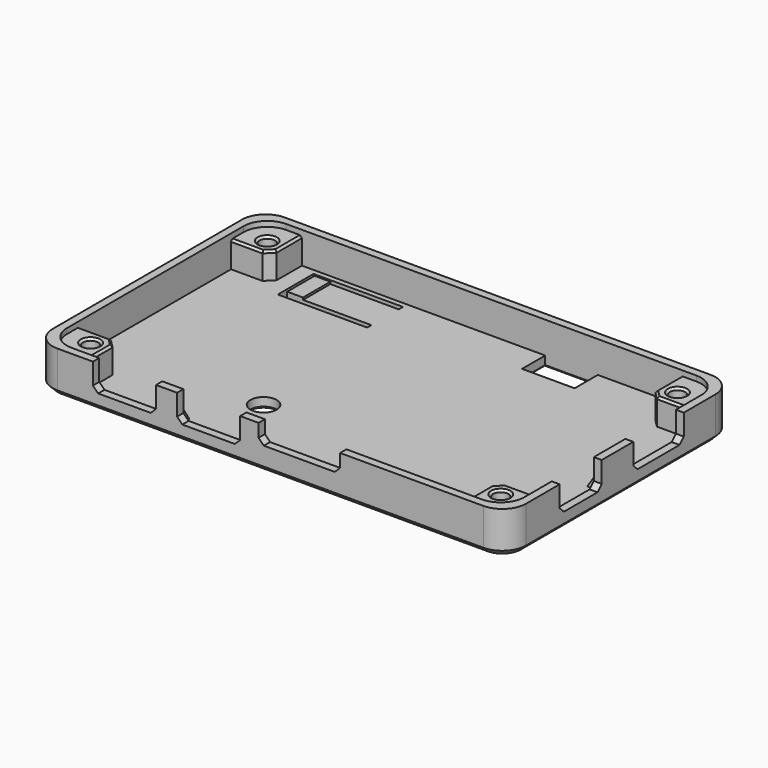
from build123d import *

# Parameters (mm, degrees)
PAD_DEPTH          = 8
POCKET_DEPTH       = 6
SKETCH002_R        = 2.5
SKETCH002_W        = 10
SKETCH002_H        = 5.5
POCKET001_DEPTH    = 2
SKETCH012_W        = 3
SKETCH012_H        = 6.5
PAD004_DEPTH       = 0.4
SKETCH003_W        = 12
SKETCH003_H        = 1.5
SKETCH003_W_2      = 1.5
SKETCH003_H_2      = 10
SKETCH003_H_3      = 12
POCKET002_DEPTH    = 5
CHAMFER_SIZE       = 1
SKETCH013_W        = 15.5
SKETCH013_H        = 1.5
POCKET003_DEPTH    = 3.5
CHAMFER002_SIZE    = 1
SKETCH014_W        = 10
SKETCH014_H        = 2
SKETCH014_W_2      = 3
SKETCH014_W_3      = 2
SKETCH014_H_2      = 5
PAD005_DEPTH       = 3
SKETCH015_W        = 7.5
SKETCH015_H        = 7.5
PAD006_DEPTH       = 5
SKETCH016_R        = 1.45
POCKET004_DEPTH    = 7
CHAMFER003_SIZE    = 1.5
CHAMFER004_1_SIZE2 = 2.9
CHAMFER004_1_SIZE  = 1.9
CHAMFER004_2_SIZE2 = 2.9
CHAMFER004_2_SIZE  = 1.9
CHAMFER004_3_SIZE2 = 2.9
CHAMFER004_3_SIZE  = 1.9
CHAMFER005_SIZE2   = 1.9
CHAMFER005_SIZE    = 2.9
CHAMFER007_SIZE    = 0.4
CHAMFER008_SIZE    = 1


with BuildPart() as part:
    # Sketch → Pad (new body)
    with BuildSketch(Plane.XY):
        with BuildLine():
            Line((-40.5, -27), (40.5, -27))
            ThreePointArc((40.5, -27), (43.681981, -25.681981), (45, -22.5))
            Line((45, -22.5), (45, 22.5))
            ThreePointArc((45, 22.5), (43.681981, 25.681981), (40.5, 27))
            Line((40.5, 27), (-40.5, 27))
            ThreePointArc((-40.5, 27), (-43.681981, 25.681981), (-45, 22.5))
            Line((-45, 22.5), (-45, -22.5))
            ThreePointArc((-45, -22.5), (-43.681981, -25.681981), (-40.5, -27))
        make_face()
    extrude(amount=PAD_DEPTH)

    # Sketch001 (on Face10 of Pad) → Pocket (cut)
    with BuildSketch(Plane.XY.offset(8)):
        with BuildLine():
            Line((-39, -25.5), (39, -25.5))
            ThreePointArc((39, -25.5), (42.181981, -24.181981), (43.5, -21))
            Line((43.5, -21), (43.5, 21))
            ThreePointArc((43.5, 21), (42.181981, 24.181981), (39, 25.5))
            Line((39, 25.5), (-39, 25.5))
            ThreePointArc((-39, 25.5), (-42.181981, 24.181981), (-43.5, 21))
            Line((-43.5, 21), (-43.5, -21))
            ThreePointArc((-43.5, -21), (-42.181981, -24.181981), (-39, -25.5))
        make_face()
    extrude(amount=-POCKET_DEPTH, mode=Mode.SUBTRACT)

    # Sketch002 (on Face4 of Pocket) → Pocket001 (cut)
    with BuildSketch(Plane(origin=(0, 0, 0), x_dir=(1, 0, 0), z_dir=(0, 0, -1))):
        with Locations((-12.5, 13)):
            Circle(SKETCH002_R)
        Polygon((-16, -23.5), (-32, -23.5), (-32, -17), (-16, -17), (-16, -16), (-33, -16), (-33, -24.5), (-16, -24.5), align=None)
        with Locations((15.25, -22.75)):
            Rectangle(SKETCH002_W, SKETCH002_H)
    extrude(amount=-POCKET001_DEPTH, mode=Mode.SUBTRACT)

    # Sketch012 (on Face30 of Pocket001) → Pad004 (join)
    with BuildSketch(Plane.XY.offset(2)):
        with Locations((-30.5, 20.25)):
            Rectangle(SKETCH012_W, SKETCH012_H)
    extrude(amount=PAD004_DEPTH)

    # Sketch003 (on Face5 of Pocket001) → Pocket002 (cut)
    with BuildSketch(Plane.XY.offset(8)):
        with Locations((-11.75, -26.25)):
            Rectangle(SKETCH003_W, SKETCH003_H)
        with Locations((44.25, -9.5)):
            Rectangle(SKETCH003_W_2, SKETCH003_H_2)
        with Locations((-27.75, -26.25)):
            Rectangle(SKETCH003_W, SKETCH003_H)
        with Locations((44.25, 9)):
            Rectangle(SKETCH003_W_2, SKETCH003_H_3)
    extrude(amount=-POCKET002_DEPTH, mode=Mode.SUBTRACT)

    # Chamfer
    chamfer_edges = [part.edges().sort_by_distance(p)[0] for p in [
        (44.25, -4.5, 3),
        (-17.75, -26.25, 3),
        (-5.75, -26.25, 3),
        (44.25, -14.5, 3),
        (-33.75, -26.25, 3),
        (44.25, 15, 3),
        (44.25, 3, 3),
        (-21.75, -26.25, 3),
    ]]
    chamfer(chamfer_edges, length=CHAMFER_SIZE)

    # Sketch013 (on Face4 of Chamfer) → Pocket003 (cut)
    with BuildSketch(Plane.XY.offset(8)):
        with Locations((5.5, -26.25)):
            Rectangle(SKETCH013_W, SKETCH013_H)
    extrude(amount=-POCKET003_DEPTH, mode=Mode.SUBTRACT)

    # Chamfer002
    chamfer002_edges = [part.edges().sort_by_distance(p)[0] for p in [
        (-2.25, -26.25, 4.5),
        (13.25, -26.25, 4.5),
    ]]
    chamfer(chamfer002_edges, length=CHAMFER002_SIZE)

    # Sketch014 (on Face51 of Chamfer002) → Pad005 (join)
    with BuildSketch(Plane.XY.offset(2)):
        with Locations((19, -24.5)):
            Rectangle(SKETCH014_W, SKETCH014_H)
        with Locations((-4, -24.5)):
            Rectangle(SKETCH014_W_2, SKETCH014_H)
        with Locations((-19.75, -24.5)):
            Rectangle(SKETCH014_W_2, SKETCH014_H)
        with Locations((42.5, -1)):
            Rectangle(SKETCH014_W_3, SKETCH014_H_2)
    extrude(amount=PAD005_DEPTH)

    # Sketch015 (on Face51 of Pad005) → Pad006 (join)
    with BuildSketch(Plane.XY.offset(2)):
        with Locations((39.75, 21.75)):
            Rectangle(SKETCH015_W, SKETCH015_H)
        with Locations((-39.75, -21.75)):
            Rectangle(SKETCH015_W, SKETCH015_H)
        with Locations((-39.75, 21.75)):
            Rectangle(SKETCH015_W, SKETCH015_H)
        with Locations((39.75, -21.75)):
            Rectangle(SKETCH015_W, SKETCH015_H)
    extrude(amount=PAD006_DEPTH)

    # Sketch016 (on Face83 of Pad006) → Pocket004 (cut)
    with BuildSketch(Plane.XY.offset(7)):
        with Locations((-39, 21)):
            Circle(SKETCH016_R)
        with Locations((39, 21)):
            Circle(SKETCH016_R)
        with Locations((39, -21)):
            Circle(SKETCH016_R)
        with Locations((-39, -21)):
            Circle(SKETCH016_R)
    extrude(amount=-POCKET004_DEPTH, mode=Mode.SUBTRACT)

    # Chamfer003
    chamfer003_edges = [part.edges().sort_by_distance(p)[0] for p in [
        (-36, 18, 4.5),
        (36, 18, 4.5),
        (36, -18, 4.5),
        (-36, -18, 4.5),
    ]]
    chamfer(chamfer003_edges, length=CHAMFER003_SIZE)

    # Chamfer004 1
    chamfer004_1_edges = [part.edges().sort_by_distance(p)[0] for p in [
        (19, -23.5, 5),
    ]]
    chamfer004_1_side = part.faces().sort_by_distance((19, -24.5, 5))[0]
    chamfer(chamfer004_1_edges, length=CHAMFER004_1_SIZE, length2=CHAMFER004_1_SIZE2, reference=chamfer004_1_side)

    # Chamfer004 2
    chamfer004_2_edges = [part.edges().sort_by_distance(p)[0] for p in [
        (-4, -23.5, 5),
    ]]
    chamfer004_2_side = part.faces().sort_by_distance((-4, -24.5, 5))[0]
    chamfer(chamfer004_2_edges, length=CHAMFER004_2_SIZE, length2=CHAMFER004_2_SIZE2, reference=chamfer004_2_side)

    # Chamfer004 3
    chamfer004_3_edges = [part.edges().sort_by_distance(p)[0] for p in [
        (-19.75, -23.5, 5),
    ]]
    chamfer004_3_side = part.faces().sort_by_distance((-19.75, -24.5, 5))[0]
    chamfer(chamfer004_3_edges, length=CHAMFER004_3_SIZE, length2=CHAMFER004_3_SIZE2, reference=chamfer004_3_side)

    # Chamfer005
    chamfer005_edges = [part.edges().sort_by_distance(p)[0] for p in [
        (41.5, -1, 5),
    ]]
    chamfer005_side = part.faces().sort_by_distance((41.5, -1, 3.5))[0]
    chamfer(chamfer005_edges, length=CHAMFER005_SIZE, length2=CHAMFER005_SIZE2, reference=chamfer005_side)

    # Chamfer007
    chamfer007_edges = [part.edges().sort_by_distance(p)[0] for p in [
        (-40.45, 21, 7),
        (37.55, -21, 7),
        (-40.45, -21, 7),
        (37.55, 21, 7),
        (-36, -22.5, 7),
        (-36.75, -18.75, 7),
        (-40.5, -18, 7),
        (-40.5, 18, 7),
        (-36.75, 18.75, 7),
        (-36, 22.5, 7),
        (36, -22.5, 7),
        (36.75, -18.75, 7),
        (40.5, -18, 7),
        (40.5, 18, 7),
        (36.75, 18.75, 7),
        (36, 22.5, 7),
        (37.55, -21, 0),
        (37.55, 21, 0),
        (15.25, 20, 0),
        (20.25, 22.75, 0),
        (15.25, 25.5, 0),
        (10.25, 22.75, 0),
        (-24, 17, 0),
        (-32, 20.25, 0),
        (-24, 23.5, 0),
        (-16, 24, 0),
        (-24.5, 24.5, 0),
        (-33, 20.25, 0),
        (-24.5, 16, 0),
        (-16, 16.5, 0),
        (-40.45, 21, 0),
        (-40.45, -21, 0),
        (-15, -13, 0),
    ]]
    chamfer(chamfer007_edges, length=CHAMFER007_SIZE)

    # Chamfer008
    chamfer008_edges = [part.edges().sort_by_distance(p)[0] for p in [
        (0, -27, 0),
    ]]
    chamfer(chamfer008_edges, length=CHAMFER008_SIZE)


solid = part.part
